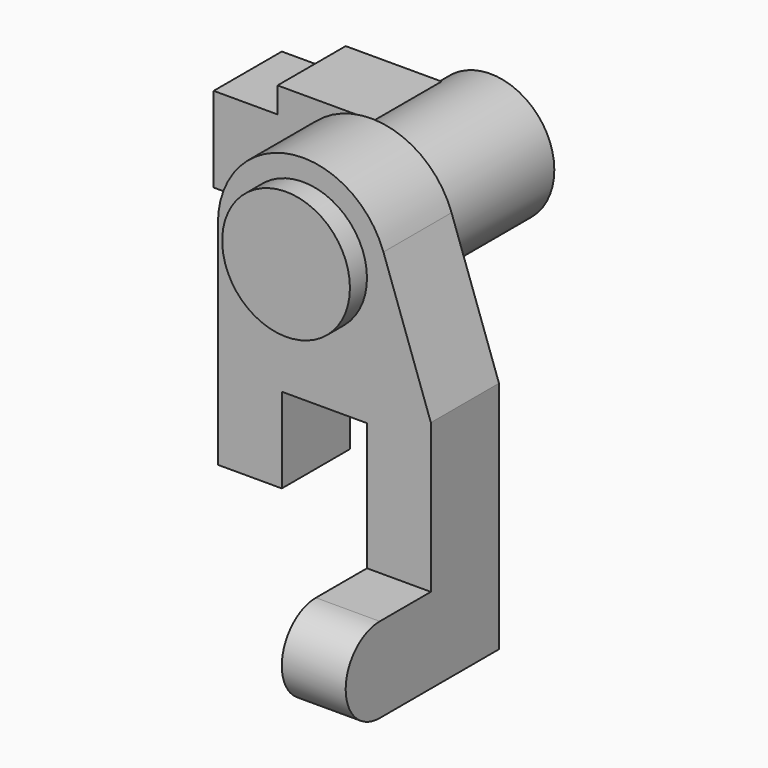
from build123d import *

# Parameters (mm, degrees)
PAD001_DEPTH = 20
SKETCH_R     = 15
PAD_DEPTH    = 60
PAD002_DEPTH = 20
PAD003_DEPTH = 15


with BuildPart() as pad001:
    # Sketch001 → Pad001 (new body)
    with BuildSketch(Plane.XZ.offset(-35)):
        Polygon((0, 93), (-30, 93), (-30, 87), (-45, 87), (-45, 67), (0, 67), align=None)
    extrude(amount=-PAD001_DEPTH)


with BuildPart() as fusion:
    # Sketch → Pad (new body)
    with BuildSketch(Plane.XZ):
        with Locations((0, 80)):
            Circle(SKETCH_R)
    extrude(amount=-PAD_DEPTH)

    # Fusion: union Pad001
    add(pad001.part)


with BuildPart() as pad003:
    # Sketch002 → Pad002 (new body)
    with BuildSketch(Plane.XZ.offset(-5)):
        with BuildLine():
            Line((-20, 79.999966), (-20, 30))
            Line((-20, 30), (-5, 30))
            Line((-5, 30), (-5, 50))
            Line((-5, 50), (15, 50))
            Line((15, 50), (15, 0))
            Line((15, 0), (30, 0))
            Line((30, 0), (30, 55))
            Line((30, 55), (18.865919, 86.63906))
            ThreePointArc((18.865919, 86.63906), (-3.367629, 99.714438), (-20, 79.999966))
        make_face()
    extrude(amount=-PAD002_DEPTH)

    # Sketch003 → Pad003 (new body)
    with BuildSketch(Plane(origin=(15, 5, 0), x_dir=(0, 0, -1), z_dir=(-1, 0, 0))):
        with BuildLine():
            Line((-20, 15.000024), (-20, 0))
            Line((-20, 0), (0, 0))
            Line((0, 0), (0, 15.000024))
            ThreePointArc((0, 15.000024), (-10, 25), (-20, 15.000024))
        make_face()
    extrude(amount=-PAD003_DEPTH)


solid = Compound([fusion.part, pad003.part])
